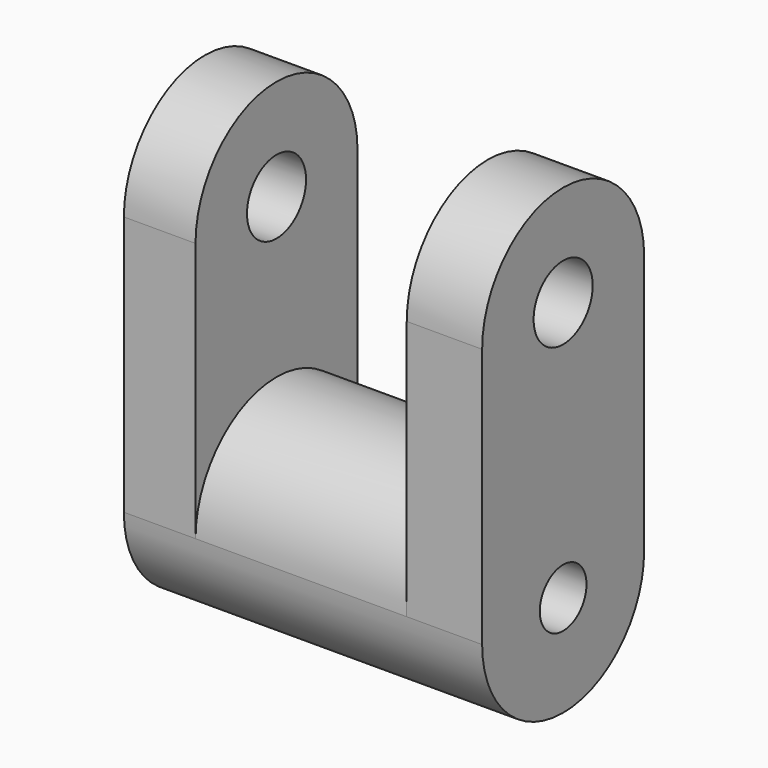
from build123d import *

# Parameters (mm, degrees)
F1_DEPTH      = 38.1
F1_DEPTH_BACK = 38.1
F2_R          = 7.8493938986
F2_R_2        = 6.2054902318
F3_DEPTH      = 76.201
F4_W          = 44.9225585908
F4_H          = 36.150701344
F4_H_2        = 55.2893020213
F5_DEPTH      = 43.0628599057
F6_R          = 6.2054902318
F7_DEPTH      = 60.95999991


with BuildPart() as f1:
    # F0 (on Right) → F1 (new body, two sides)
    with BuildSketch(Plane.YZ) as f1_sk:
        with BuildLine():
            Line((-21.5309299529, 32.9609289765), (-21.5309299529, -22.3283730447))
            ThreePointArc((-21.5309299529, -22.3283730447), (0, -43.8593029976), (21.5309299529, -22.3283730447))
            Line((21.5309299529, -22.3283730447), (21.5309299529, 32.9609289765))
            ThreePointArc((21.5309299529, 32.9609289765), (0, 54.4918589294), (-21.5309299529, 32.9609289765))
        make_face()
    extrude(amount=F1_DEPTH)
    extrude(f1_sk.sketch, amount=-F1_DEPTH_BACK)

    # F2 (on face) → F3 (cut, through all)
    with BuildSketch(Plane.YZ.offset(38.1)):
        with Locations((0, 32.9609289765)):
            Circle(F2_R)
        with Locations((0, -22.3283730447)):
            Circle(F2_R_2)
    extrude(amount=-F3_DEPTH, mode=Mode.SUBTRACT)

    # F4 (on face) → F5 (cut, through all)
    with BuildSketch(Plane(origin=(0, 21.5309299529, 0), x_dir=(-1, 0, 0), z_dir=(0, 1, 0))):
        with Locations((0.3987206146, 51.0362796485)):
            Rectangle(F4_W, F4_H)
        with Locations((0.3987206146, 5.3162779659)):
            Rectangle(F4_W, F4_H_2)
    extrude(amount=-F5_DEPTH, mode=Mode.SUBTRACT)

    # F6 (on face) → F7 (join, through all)
    with BuildSketch(Plane.YZ.offset(-22.85999991)):
        with BuildLine():
            ThreePointArc((21.5309299529, -22.3283730447), (0, -0.7974430919), (-21.5309299529, -22.3283730447))
            ThreePointArc((-21.5309299529, -22.3283730447), (0, -43.8593029976), (21.5309299529, -22.3283730447))
        make_face()
        with Locations((0, -22.3283730447)):
            Circle(F6_R, mode=Mode.SUBTRACT)
    extrude(amount=F7_DEPTH)


solid = f1.part
